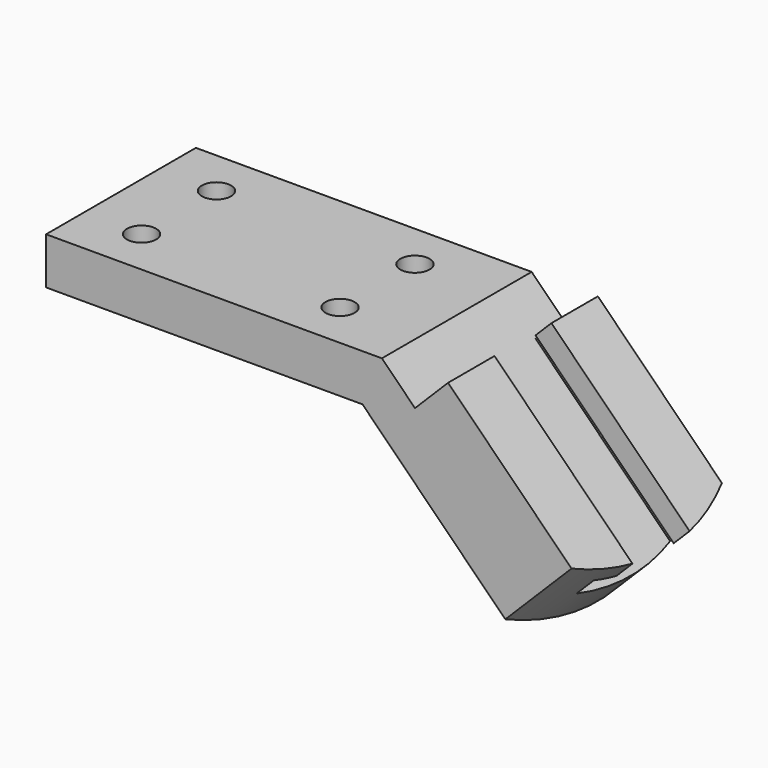
from build123d import *

# Parameters (mm, degrees)
F1_DEPTH  = 25.4
F2_R      = 3.9624
F3_DEPTH  = 58.55227
F4_R      = 6.35
F5_DEPTH  = 6.096
F7_DEPTH  = 25.4
F8_DEPTH  = 25.4
F10_DEPTH = 66.549


with BuildPart() as f1:
    # F0 (on Front) → F1 (new body, symmetric)
    with BuildSketch(Plane.XZ):
        Polygon((91.112512, 0), (0, 0), (0, -12.7), (85.852, -12.7), (131.70327, -58.55127), (149.663782, -40.590758), (109.073024, 0), (100.092768, -8.980256), align=None)
    extrude(amount=F1_DEPTH, both=True)

    # F2 (on face) → F3 (cut, through all)
    with BuildSketch(Plane.XY):
        with Locations((15.748, 12.7)):
            Circle(F2_R)
        with Locations((15.748, -12.7)):
            Circle(F2_R)
        with Locations((69.596, 12.7)):
            Circle(F2_R)
        with Locations((69.596, -12.7)):
            Circle(F2_R)
    extrude(amount=-F3_DEPTH, mode=Mode.SUBTRACT)

    # F4 (on face) → F5 (cut)
    with BuildSketch(Plane(origin=(0, 0, -12.7), x_dir=(1, 0, 0), z_dir=(0, 0, -1))):
        with Locations((15.748, 12.7)):
            Circle(F4_R)
        with Locations((15.748, -12.7)):
            Circle(F4_R)
        with Locations((69.596, -12.7)):
            Circle(F4_R)
        with Locations((69.596, 12.7)):
            Circle(F4_R)
    extrude(amount=-F5_DEPTH, mode=Mode.SUBTRACT)

    # F6 (on face) → F7 (join)
    with BuildSketch(Plane(origin=(54.536512, 0, 54.536512), x_dir=(0.707107, 0, -0.707107), z_dir=(0.707107, 0, 0.707107))):
        with BuildLine():
            ThreePointArc((124.727698, 25.4), (130.973663, -0.030356), (124.485501, -25.4))
            Line((124.485501, -25.4), (134.530275, -25.4))
            Line((134.530275, -25.4), (134.530275, 25.4))
            Line((134.530275, 25.4), (124.727698, 25.4))
        make_face()
    extrude(amount=-F7_DEPTH)

    # F6 (on face) → F8 (cut)
    with BuildSketch(Plane(origin=(54.536512, 0, 54.536512), x_dir=(0.707107, 0, -0.707107), z_dir=(0.707107, 0, 0.707107))):
        with BuildLine():
            ThreePointArc((124.727698, 25.4), (130.973663, -0.030356), (124.485501, -25.4))
            Line((124.485501, -25.4), (134.530275, -25.4))
            Line((134.530275, -25.4), (134.530275, 25.4))
            Line((134.530275, 25.4), (124.727698, 25.4))
        make_face()
    extrude(amount=-F8_DEPTH, mode=Mode.SUBTRACT)

    # F9 (on face) → F10 (cut, through all)
    with BuildSketch(Plane(origin=(54.536512, 0, -54.536512), x_dir=(0, -1, 0), z_dir=(-0.707107, 0, 0.707107))):
        Polygon((9.652, 71.030275), (9.652, 77.126275), (-9.646871, 77.126275), (-9.646871, 71.030275), (-15.48255, 71.030275), (-15.48255, 64.426275), (16.01345, 64.426275), (16.01345, 71.030275), align=None)
    extrude(amount=-F10_DEPTH, mode=Mode.SUBTRACT)


solid = f1.part
